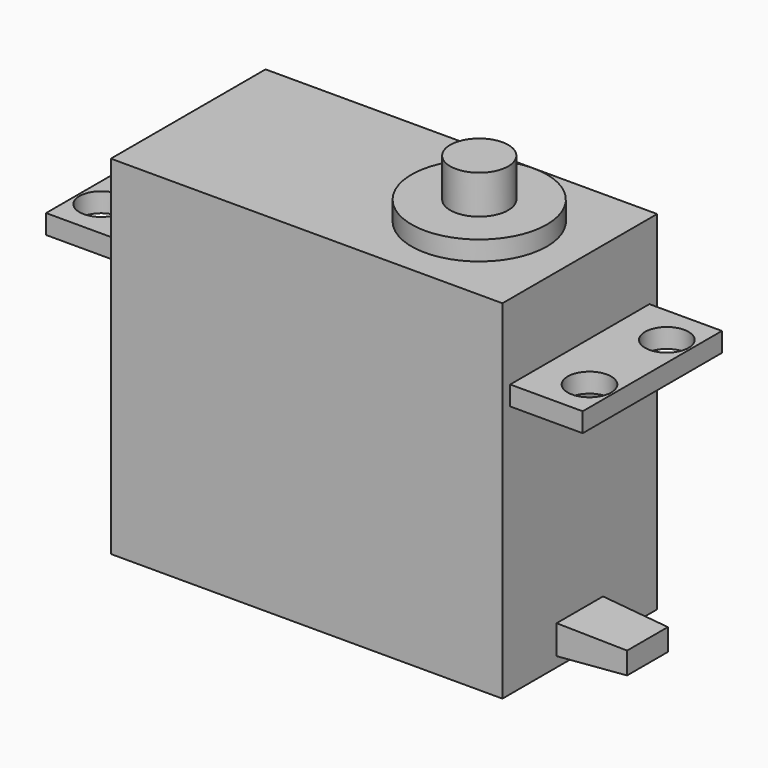
from build123d import *

# Parameters (mm, degrees)
F0_W      = 40.5
F0_H      = 20
F1_DEPTH  = 36
F2_R      = 7
F3_DEPTH  = 2
F4_R      = 3
F5_DEPTH  = 4
F6_W      = 18
F6_H      = 2
F7_DEPTH  = 7.5
F8_W      = 18
F8_H      = 2
F9_DEPTH  = 7.5
F10_R     = 2.25
F11_DEPTH = 25
F12_W     = 6
F12_H     = 3
F13_DEPTH = 7
F13_TAPER = 3


with BuildPart() as f1:
    # F0 (on Top) → F1 (new body)
    with BuildSketch(Plane.XY):
        with Locations((-20.25, -10)):
            Rectangle(F0_W, F0_H)
    extrude(amount=F1_DEPTH)

    # F2 (on face) → F3 (join)
    with BuildSketch(Plane.XY.offset(36)):
        with Locations((-10.4, -10)):
            Circle(F2_R)
    extrude(amount=F3_DEPTH)

    # F4 (on face) → F5 (join)
    with BuildSketch(Plane.XY.offset(38)):
        with Locations((-10.4, -10)):
            Circle(F4_R)
    extrude(amount=F5_DEPTH)

    # F6 (on face) → F7 (join)
    with BuildSketch(Plane.YZ):
        with Locations((-10, 27.2)):
            Rectangle(F6_W, F6_H)
    extrude(amount=F7_DEPTH)

    # F8 (on face) → F9 (join)
    with BuildSketch(Plane(origin=(-40.5, 0, 0), x_dir=(0, -1, 0), z_dir=(-1, 0, 0))):
        with Locations((10, 27.2)):
            Rectangle(F8_W, F8_H)
    extrude(amount=F9_DEPTH)

    # F10 (on face) → F11 (cut)
    with BuildSketch(Plane.XY.offset(28.2)):
        with Locations((5, -15)):
            Circle(F10_R)
        with Locations((5, -5)):
            Circle(F10_R)
        with Locations((-45.5, -5)):
            Circle(F10_R)
        with Locations((-45.5, -15)):
            Circle(F10_R)
    extrude(amount=-F11_DEPTH, mode=Mode.SUBTRACT)

    # F12 (on face) → F13 (join)
    with BuildSketch(Plane.YZ):
        with Locations((-10, 2.5268535551)):
            Rectangle(F12_W, F12_H)
    extrude(amount=F13_DEPTH, taper=F13_TAPER)


solid = f1.part
